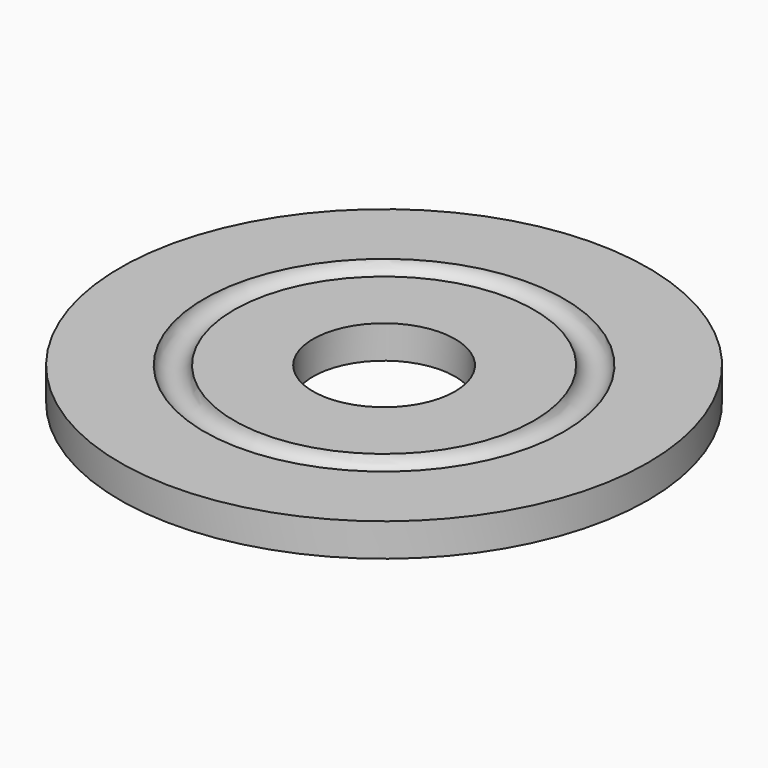
from build123d import *

# Parameters (mm, degrees)
SKETCH003_AS_DRAWN_R                 = 2.3
REVOLVE_ONTO_SKETCH003_ROLL_ANGLE    = 90
SKETCH005_R                          = 10.760963
EXTRUDE_DEPTH                        = 5
SKETCH004_R                          = 40
PAD001_DEPTH                         = 5
SKETCH006_AS_DRAWN_R                 = 2.3
REVOLVE001_ONTO_SKETCH006_ROLL_ANGLE = 90
SKETCH007_R                          = 10.760963
EXTRUDE001_DEPTH                     = 5
SKETCH008_R                          = 40
PAD002_DEPTH                         = 5


with BuildPart() as revolve_body:
    # Sketch003 as drawn → Revolve (revolve)
    with BuildSketch(Plane.XY):
        with Locations((25, 5.4)):
            Circle(SKETCH003_AS_DRAWN_R)
    revolve(axis=Axis((0, 0, 0), (0, 1, 0)))


with BuildPart() as revolve_body_1:
    # Revolve onto Sketch003 roll: moved
    add(revolve_body.part.rotate(Axis((0, 0, 0), (1, 0, 0)), REVOLVE_ONTO_SKETCH003_ROLL_ANGLE))


with BuildPart() as revolve_body_2:
    # Revolve onto Sketch003 placement: moved
    add(revolve_body_1.part)


with BuildPart() as hub_hole_ex:
    # Sketch005 → Extrude (new body)
    with BuildSketch(Plane.XY):
        Circle(SKETCH005_R)
    extrude(amount=EXTRUDE_DEPTH)


with BuildPart() as top001:
    # Sketch004 → Pad001 (new body)
    with BuildSketch(Plane.XY):
        Circle(SKETCH004_R)
    extrude(amount=PAD001_DEPTH)

    # Cut001: cut hub_hole_ex
    add(hub_hole_ex.part, mode=Mode.SUBTRACT)

    # Cut002: cut Revolve body
    add(revolve_body_2.part, mode=Mode.SUBTRACT)


with BuildPart() as revolve001:
    # Sketch006 as drawn → Revolve001 (revolve)
    with BuildSketch(Plane.XY):
        with Locations((25, 5.4)):
            Circle(SKETCH006_AS_DRAWN_R)
    revolve(axis=Axis((0, 0, 0), (0, 1, 0)))


with BuildPart() as revolve001_1:
    # Revolve001 onto Sketch006 roll: moved
    add(revolve001.part.rotate(Axis((0, 0, 0), (1, 0, 0)), REVOLVE001_ONTO_SKETCH006_ROLL_ANGLE))


with BuildPart() as revolve001_2:
    # Revolve001 onto Sketch006 placement: moved
    add(revolve001_1.part)


with BuildPart() as hub_hole_ex001:
    # Sketch007 → Extrude001 (new body)
    with BuildSketch(Plane.XY):
        Circle(SKETCH007_R)
    extrude(amount=EXTRUDE001_DEPTH)


with BuildPart() as top004:
    # Sketch008 → Pad002 (new body)
    with BuildSketch(Plane.XY):
        Circle(SKETCH008_R)
    extrude(amount=PAD002_DEPTH)

    # Cut003: cut hub_hole_ex001
    add(hub_hole_ex001.part, mode=Mode.SUBTRACT)

    # Cut004: cut Revolve001
    add(revolve001_2.part, mode=Mode.SUBTRACT)


solid = Compound([top001.part, top004.part])
